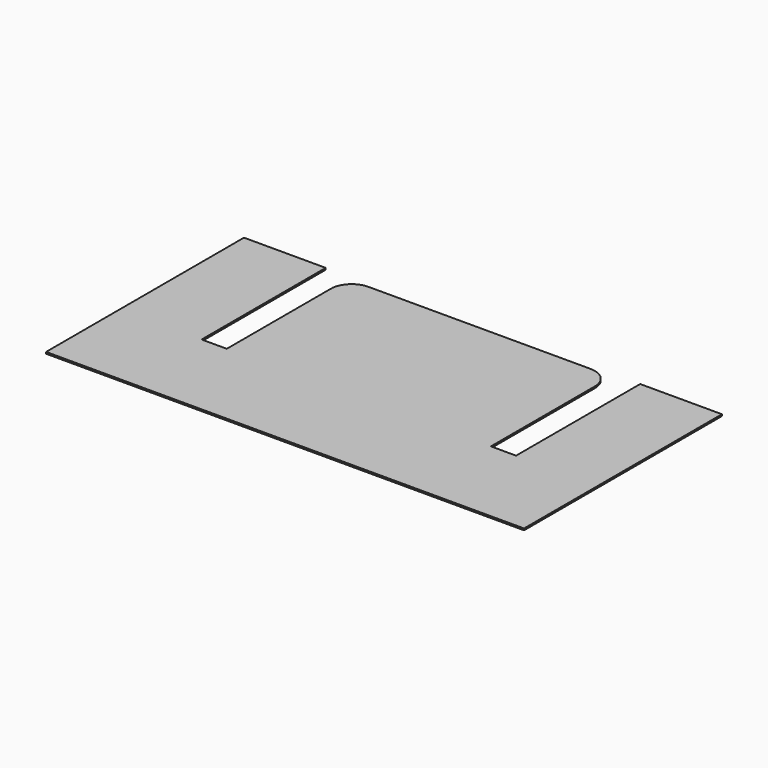
from build123d import *

# Parameters (mm, degrees)
F1_DEPTH = 2
F2_R     = 25


with BuildPart() as f1:
    # F0 (on Top) → F1 (new body)
    with BuildSketch(Plane.XY):
        Polygon((-285, -290), (285, -290), (285, 0), (285, 5), (187.5, 5), (187.5, 0), (187.5, -180), (157.5, -180), (157.5, 0), (-157.5, 0), (-157.5, -180), (-187.5, -180), (-187.5, 0), (-187.5, 5), (-285, 5), (-285, 0), align=None)
    extrude(amount=F1_DEPTH)

    # F2
    f2_edges = [f1.edges().sort_by_distance(p)[0] for p in [
        (-157.5, 0, 1),
        (157.5, 0, 1),
    ]]
    fillet(f2_edges, radius=F2_R)


solid = f1.part
